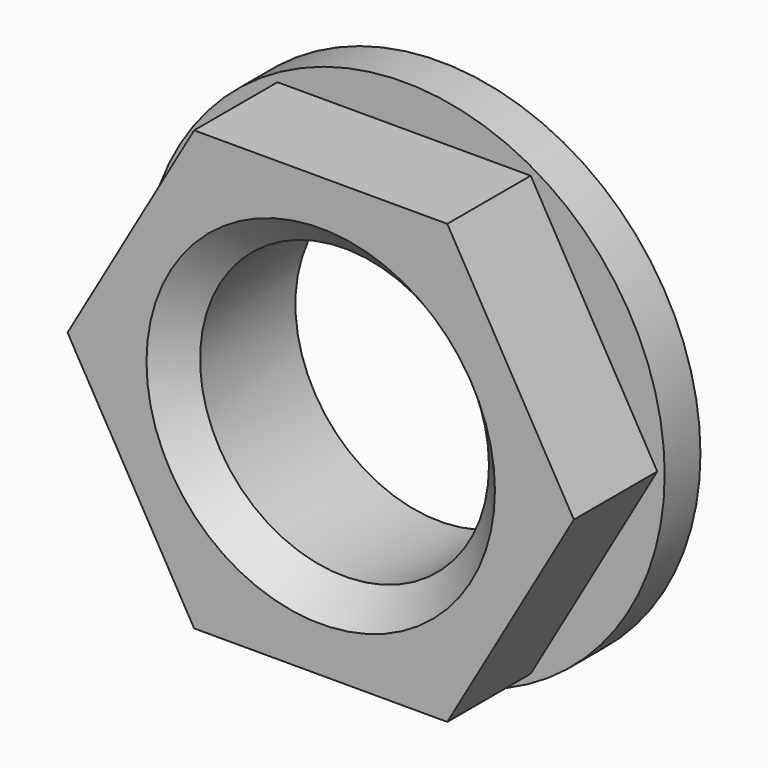
from build123d import *

# Parameters (mm, degrees)
SKETCH_R     = 8.75
PAD_DEPTH    = 1.5
PAD001_DEPTH = 3.5
SKETCH002_R  = 4.85
POCKET_DEPTH = 7
CHAMFER_SIZE = 1


with BuildPart() as part:
    # Sketch → Pad (new body)
    with BuildSketch(Plane.XZ):
        Circle(SKETCH_R)
    extrude(amount=PAD_DEPTH)

    # Sketch001 (on Face3 of Pad) → Pad001 (join)
    with BuildSketch(Plane.XZ.offset(1.5)):
        Polygon((8.5, 0), (4.25, 7.361216), (-4.25, 7.361216), (-8.5, 0), (-4.25, -7.361216), (4.25, -7.361216), align=None)
    extrude(amount=PAD001_DEPTH)

    # Sketch002 → Pocket (cut)
    with BuildSketch(Plane.XZ):
        Circle(SKETCH002_R)
    extrude(amount=POCKET_DEPTH, mode=Mode.SUBTRACT)

    # Chamfer
    chamfer_edges = [part.edges().sort_by_distance(p)[0] for p in [
        (-4.85, -5, 0),
    ]]
    chamfer(chamfer_edges, length=CHAMFER_SIZE)


solid = part.part
